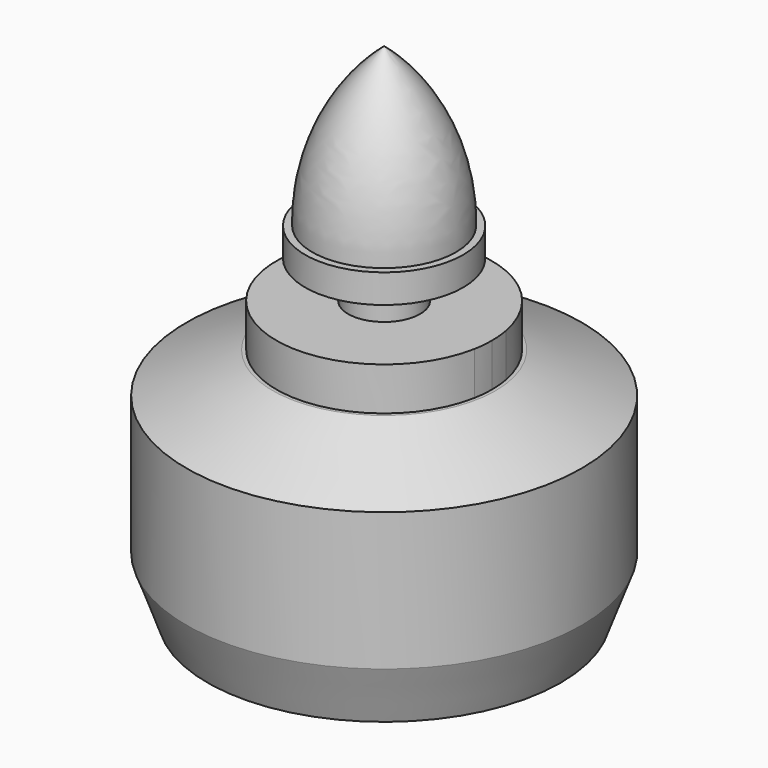
from build123d import *

# Parameters (mm, degrees)
F0_R          = 13.75
F0_R_2        = 1.5
F1_DEPTH      = 16.4
F0_R_3        = 3.25
F0_R_4        = 2.5
F2_DEPTH      = 19.4
F3_DEPTH      = 30.6
F3_DEPTH_BACK = 2
F4_DEPTH      = 0.5
F5_SIZE2      = 2.7978459489
F5_SIZE       = 6
F9_DEPTH      = 3
F10_SIZE2     = 1.4558809371
F10_SIZE      = 4


with BuildPart() as f1:
    # F0 (on Top) → F1 (new body)
    with BuildSketch(Plane.XY):
        Circle(F0_R)
        with Locations((0, -9.5)):
            Circle(F0_R_2, mode=Mode.SUBTRACT)
        with BuildLine():
            ThreePointArc((-7.375, 1.3635890143), (0, 7.5), (7.375, 1.3635890143))
            ThreePointArc((7.375, 1.3635890143), (8.8100925873, 1.2624381173), (9.5, 0))
            ThreePointArc((9.5, 0), (8.8100925873, -1.2624381173), (7.375, -1.3635890143))
            ThreePointArc((7.375, -1.3635890143), (0, -7.5), (-7.375, -1.3635890143))
            ThreePointArc((-7.375, -1.3635890143), (-9.5, 0), (-7.375, 1.3635890143))
        make_face(mode=Mode.SUBTRACT)
        with Locations((0, 9.5)):
            Circle(F0_R_2, mode=Mode.SUBTRACT)
        with BuildLine():
            ThreePointArc((-7.375, -1.3635890143), (-7.5, 0), (-7.375, 1.3635890143))
            ThreePointArc((-7.375, 1.3635890143), (-9.5, 0), (-7.375, -1.3635890143))
        make_face()
        with BuildLine():
            ThreePointArc((7.375, 1.3635890143), (7.4686846231, 0.6846531969), (7.5, 0))
            ThreePointArc((7.5, 0), (7.4686846231, -0.6846531969), (7.375, -1.3635890143))
            ThreePointArc((7.375, -1.3635890143), (8.8100925873, -1.2624381173), (9.5, 0))
            ThreePointArc((9.5, 0), (8.8100925873, 1.2624381173), (7.375, 1.3635890143))
        make_face()
        with Locations((0, -9.5)):
            Circle(F0_R_2)
        with Locations((0, 9.5)):
            Circle(F0_R_2)
    extrude(amount=F1_DEPTH)

    # F0 (on Top) → F2 (join)
    with BuildSketch(Plane.XY):
        with BuildLine():
            ThreePointArc((7.375, -1.3635890143), (6.5, 0), (7.375, 1.3635890143))
            ThreePointArc((7.375, 1.3635890143), (0, 7.5), (-7.375, 1.3635890143))
            ThreePointArc((-7.375, 1.3635890143), (-6.7375618827, 0.8100925873), (-6.5, 0))
            ThreePointArc((-6.5, 0), (-6.7375618827, -0.8100925873), (-7.375, -1.3635890143))
            ThreePointArc((-7.375, -1.3635890143), (0, -7.5), (7.375, -1.3635890143))
        make_face()
        Circle(F0_R_3, mode=Mode.SUBTRACT)
        with BuildLine():
            ThreePointArc((-6.5, 0), (-6.7375618827, 0.8100925873), (-7.375, 1.3635890143))
            ThreePointArc((-7.375, 1.3635890143), (-7.5, 0), (-7.375, -1.3635890143))
            ThreePointArc((-7.375, -1.3635890143), (-6.7375618827, -0.8100925873), (-6.5, 0))
        make_face()
        with BuildLine():
            ThreePointArc((7.375, -1.3635890143), (7.4686846231, -0.6846531969), (7.5, 0))
            ThreePointArc((7.5, 0), (7.4686846231, 0.6846531969), (7.375, 1.3635890143))
            ThreePointArc((7.375, 1.3635890143), (6.5, 0), (7.375, -1.3635890143))
        make_face()
        Circle(F0_R_3)
        Circle(F0_R_4, mode=Mode.SUBTRACT)
    extrude(amount=F2_DEPTH)

    # F0 (on Top) → F3 (join, two sides)
    with BuildSketch(Plane.XY) as f3_sk:
        Circle(F0_R_4)
    extrude(amount=F3_DEPTH)
    extrude(f3_sk.sketch, amount=-F3_DEPTH_BACK)

    # F0 (on Top) → F4 (join)
    with BuildSketch(Plane.XY):
        Circle(F0_R_3)
        Circle(F0_R_4, mode=Mode.SUBTRACT)
    extrude(amount=-F4_DEPTH)

    # F5
    f5_edges = [f1.edges().sort_by_distance(p)[0] for p in [
        (-13.75, 0, 16.4),
    ]]
    f5_side = f1.faces().sort_by_distance((-13.361091, 0, 16.4))[0]
    chamfer(f5_edges, length=F5_SIZE, length2=F5_SIZE2, reference=f5_side)

    # F0 (on Top) → F9 (cut)
    with BuildSketch(Plane.XY):
        with BuildLine():
            ThreePointArc((-6.5, 0), (-6.7375618827, 0.8100925873), (-7.375, 1.3635890143))
            ThreePointArc((-7.375, 1.3635890143), (-7.5, 0), (-7.375, -1.3635890143))
            ThreePointArc((-7.375, -1.3635890143), (-6.7375618827, -0.8100925873), (-6.5, 0))
        make_face()
        with BuildLine():
            ThreePointArc((-7.375, -1.3635890143), (-7.5, 0), (-7.375, 1.3635890143))
            ThreePointArc((-7.375, 1.3635890143), (-9.5, 0), (-7.375, -1.3635890143))
        make_face()
        with Locations((0, -9.5)):
            Circle(F0_R_2)
        with BuildLine():
            ThreePointArc((7.375, 1.3635890143), (7.4686846231, 0.6846531969), (7.5, 0))
            ThreePointArc((7.5, 0), (7.4686846231, -0.6846531969), (7.375, -1.3635890143))
            ThreePointArc((7.375, -1.3635890143), (8.8100925873, -1.2624381173), (9.5, 0))
            ThreePointArc((9.5, 0), (8.8100925873, 1.2624381173), (7.375, 1.3635890143))
        make_face()
        with BuildLine():
            ThreePointArc((7.375, -1.3635890143), (7.4686846231, -0.6846531969), (7.5, 0))
            ThreePointArc((7.5, 0), (7.4686846231, 0.6846531969), (7.375, 1.3635890143))
            ThreePointArc((7.375, 1.3635890143), (6.5, 0), (7.375, -1.3635890143))
        make_face()
        with Locations((0, 9.5)):
            Circle(F0_R_2)
    extrude(amount=F9_DEPTH, mode=Mode.SUBTRACT)

    # F10
    f10_edges = [f1.edges().sort_by_distance(p)[0] for p in [
        (-13.75, 0, 0),
    ]]
    f10_side = f1.faces().sort_by_distance((-13.75, 0, 6.801077))[0]
    chamfer(f10_edges, length=F10_SIZE, length2=F10_SIZE2, reference=f10_side)


with BuildPart() as f8:
    # F7 (on Front) → F8 (revolve)
    with BuildSketch(Plane.XZ):
        with BuildLine():
            Line((2.5, 30), (2.5, 22))
            Line((2.5, 22), (5.5, 22))
            Line((5.5, 22), (5.5, 24))
            Line((5.5, 24), (5, 24))
            ThreePointArc((5, 24), (3.747548784, 30.0670676291), (0, 35))
            Line((0, 35), (0, 30))
            Line((0, 30), (2.5, 30))
        make_face()
    revolve(axis=Axis((0, 0, 24.1000112146), (0, 0, 1)))


solid = Compound([f1.part, f8.part])
